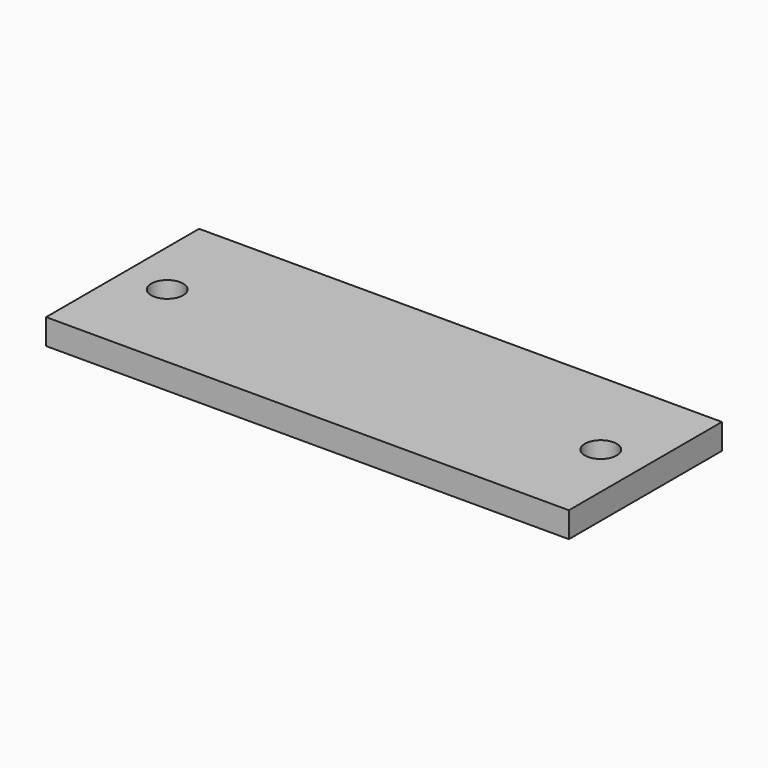
from build123d import *

# Parameters (mm, degrees)
F0_W     = 41
F0_H     = 15
F1_DEPTH = 2
F3_DEPTH = 2.001


with BuildPart() as f1:
    # F0 (on Top) → F1 (new body)
    with BuildSketch(Plane.XY):
        Rectangle(F0_W, F0_H)
    extrude(amount=F1_DEPTH)

    # F2 (on face) → F3 (cut, through all)
    with BuildSketch(Plane.XY.offset(2)):
        with BuildLine():
            Line((-18.25, 0), (-15.75, 0))
            ThreePointArc((-15.75, 0), (-17, 1.25), (-18.25, 0))
        make_face()
        with BuildLine():
            ThreePointArc((-18.25, 0), (-17, -1.25), (-15.75, 0))
            Line((-15.75, 0), (-18.25, 0))
        make_face()
        with BuildLine():
            Line((15.75, 0), (18.25, 0))
            ThreePointArc((18.25, 0), (17, 1.25), (15.75, 0))
        make_face()
        with BuildLine():
            ThreePointArc((15.75, 0), (17, -1.25), (18.25, 0))
            Line((18.25, 0), (15.75, 0))
        make_face()
    extrude(amount=-F3_DEPTH, mode=Mode.SUBTRACT)


solid = f1.part
